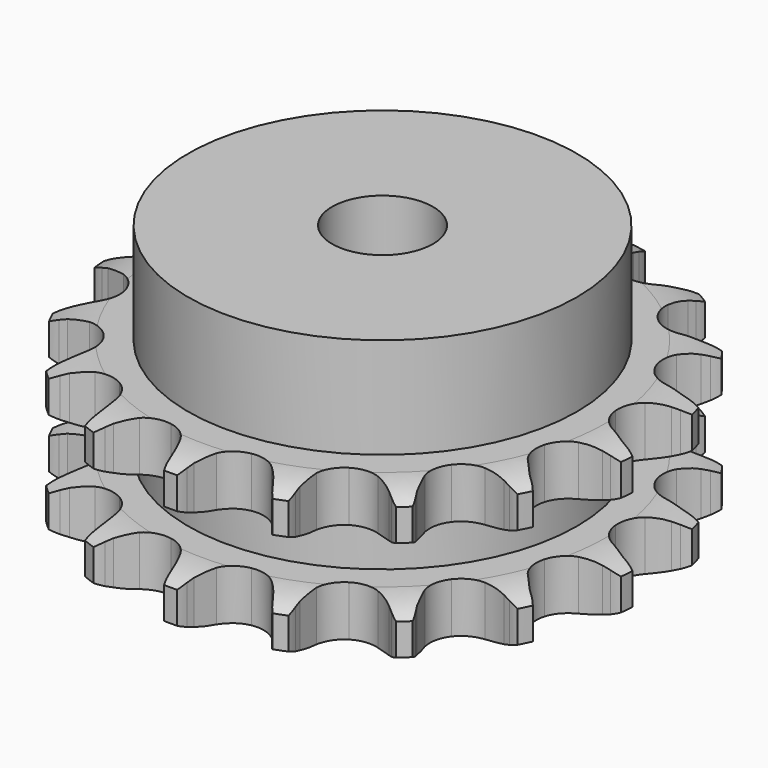
from build123d import *

# Parameters (mm, degrees)
PAD_DEPTH         = 21
SKETCH001_R       = 27
PAD001_DEPTH      = 35
SKETCH002_R       = 7
POCKET_DEPTH      = 0.001
POCKET_DEPTH_BACK = 35.001


with BuildPart() as part:
    # Sprocket → Pad (new body)
    with BuildSketch(Plane.XY):
        with BuildLine():
            ThreePointArc((-7.040452, 37.663091), (-6.014058, 36.538724), (-5.252562, 35.220464))
            Line((-5.252562, 35.220464), (-4.84886, 34.306167))
            ThreePointArc((-4.84886, 34.306167), (-4.190227, 33.040945), (-3.375086, 31.870419))
            ThreePointArc((-3.375086, 31.870419), (-1.873362, 30.671483), (0, 30.243539))
            ThreePointArc((0, 30.243539), (1.873362, 30.671483), (3.375086, 31.870419))
            ThreePointArc((3.375086, 31.870419), (4.190227, 33.040945), (4.84886, 34.306167))
            Line((4.84886, 34.306167), (5.252562, 35.220464))
            ThreePointArc((5.252562, 35.220464), (6.014058, 36.538724), (7.040452, 37.663091))
            ThreePointArc((7.040452, 37.663091), (7.591368, 36.243874), (7.825231, 34.739549))
            Line((7.825231, 34.739549), (7.871389, 33.741158))
            ThreePointArc((7.871389, 33.741158), (8.028495, 32.323448), (8.365749, 30.937503))
            ThreePointArc((8.365749, 30.937503), (9.332959, 29.277043), (10.925226, 28.20126))
            ThreePointArc((10.925226, 28.20126), (12.826676, 27.92357), (14.660097, 28.499059))
            Line((14.660097, 28.499059), (16.914245, 30.237938))
            ThreePointArc((16.914245, 30.237938), (17.259664, 30.599241), (17.620967, 30.94466))
            ThreePointArc((17.620967, 30.94466), (18.807251, 31.898817), (20.170503, 32.576482))
            ThreePointArc((20.170503, 32.576482), (20.171537, 31.054087), (19.846183, 29.566865))
            Line((19.846183, 29.566865), (19.528564, 28.619219))
            ThreePointArc((19.528564, 28.619219), (19.162925, 27.240491), (18.976744, 25.826305))
            ThreePointArc((18.976744, 25.826305), (19.278813, 23.928575), (20.37494, 22.350245))
            ThreePointArc((20.37494, 22.350245), (22.047676, 21.404423), (23.965181, 21.278743))
            Line((23.965181, 21.278743), (26.695266, 22.085907))
            ThreePointArc((26.695266, 22.085907), (27.147878, 22.298033), (27.609563, 22.489609))
            ThreePointArc((27.609563, 22.489609), (29.060421, 22.950799), (30.576417, 23.090238))
            ThreePointArc((30.576417, 23.090238), (30.027428, 21.670274), (29.186798, 20.401012))
            Line((29.186798, 20.401012), (28.548298, 19.632096))
            ThreePointArc((28.548298, 19.632096), (27.709296, 18.478554), (27.024824, 17.227121))
            ThreePointArc((27.024824, 17.227121), (26.620956, 15.348422), (27.072906, 13.480705))
            ThreePointArc((27.072906, 13.480705), (28.291015, 11.994491), (30.033635, 11.184615))
            Line((30.033635, 11.184615), (32.870944, 10.951053))
            ThreePointArc((32.870944, 10.951053), (33.369621, 10.985352), (33.869335, 10.997211))
            ThreePointArc((33.869335, 10.997211), (35.388821, 10.903147), (36.852816, 10.48553))
            ThreePointArc((36.852816, 10.48553), (35.827949, 9.359771), (34.585574, 8.47989))
            Line((34.585574, 8.47989), (33.712427, 7.99355))
            ThreePointArc((33.712427, 7.99355), (32.513372, 7.220986), (31.423052, 6.30132))
            ThreePointArc((31.423052, 6.30132), (30.367792, 4.695378), (30.114525, 2.790522))
            ThreePointArc((30.114525, 2.790522), (30.713496, 0.964637), (32.045879, -0.420057))
            Line((32.045879, -0.420057), (34.607219, -1.662802))
            ThreePointArc((34.607219, -1.662802), (35.084612, -1.810962), (35.554865, -1.980421))
            ThreePointArc((35.554865, -1.980421), (36.937764, -2.617035), (38.152038, -3.535307))
            ThreePointArc((38.152038, -3.535307), (36.789707, -4.214822), (35.313377, -4.586489))
            Line((35.313377, -4.586489), (34.323505, -4.72457))
            ThreePointArc((34.323505, -4.72457), (32.926338, -5.011816), (31.577423, -5.47551))
            ThreePointArc((31.577423, -5.47551), (30.013289, -6.591802), (29.089011, -8.276537))
            ThreePointArc((29.089011, -8.276537), (28.987949, -10.195498), (29.73015, -11.967998))
            Line((29.73015, -11.967998), (31.669598, -14.052086))
            ThreePointArc((31.669598, -14.052086), (32.061231, -14.362695), (32.438514, -14.690586))
            ThreePointArc((32.438514, -14.690586), (33.498057, -15.783771), (34.298615, -17.078681))
            ThreePointArc((34.298615, -17.078681), (32.782811, -17.220179), (31.271913, -17.033437))
            Line((31.271913, -17.033437), (30.299004, -16.80461))
            ThreePointArc((30.299004, -16.80461), (28.892419, -16.567744), (27.467087, -16.512842))
            ThreePointArc((27.467087, -16.512842), (25.605325, -16.988723), (24.134865, -18.225804))
            ThreePointArc((24.134865, -18.225804), (23.347419, -19.978673), (23.3992, -21.899595))
            Line((23.3992, -21.899595), (24.454821, -24.543559))
            ThreePointArc((24.454821, -24.543559), (24.707804, -24.974667), (24.941161, -25.416706))
            ThreePointArc((24.941161, -25.416706), (25.534252, -26.818822), (25.812975, -28.315485))
            ThreePointArc((25.812975, -28.315485), (24.348414, -27.899856), (23.007003, -27.179924))
            Line((23.007003, -27.179924), (22.182454, -26.615095))
            ThreePointArc((22.182454, -26.615095), (20.956419, -25.886107), (19.64717, -25.320023))
            ThreePointArc((19.64717, -25.320023), (17.73922, -25.091222), (15.921172, -25.713575))
            ThreePointArc((15.921172, -25.713575), (14.55369, -27.063619), (13.908058, -28.87353))
            Line((13.908058, -28.87353), (13.937286, -31.720287))
            ThreePointArc((13.937286, -31.720287), (14.017451, -32.213672), (14.075367, -32.710159))
            ThreePointArc((14.075367, -32.710159), (14.121905, -34.231843), (13.84115, -35.728125))
            ThreePointArc((13.84115, -35.728125), (12.62563, -34.811503), (11.63487, -33.655613))
            Line((11.63487, -33.655613), (11.070041, -32.831064))
            ThreePointArc((11.070041, -32.831064), (10.190138, -31.708408), (9.173793, -30.707594))
            ThreePointArc((9.173793, -30.707594), (7.477335, -29.805013), (5.557236, -29.728585))
            ThreePointArc((5.557236, -29.728585), (3.794405, -30.493472), (2.538556, -31.947935))
            Line((2.538556, -31.947935), (1.537442, -34.613015))
            ThreePointArc((1.537442, -34.613015), (1.433963, -35.102041), (1.308616, -35.585924))
            ThreePointArc((1.308616, -35.585924), (0.802316, -37.021663), (0, -38.315485))
            ThreePointArc((0, -38.315485), (-0.802316, -37.021663), (-1.308616, -35.585924))
            Line((-1.308616, -35.585924), (-1.537442, -34.613015))
            ThreePointArc((-1.537442, -34.613015), (-1.952377, -33.248312), (-2.538556, -31.947935))
            ThreePointArc((-2.538556, -31.947935), (-3.794405, -30.493472), (-5.557236, -29.728585))
            ThreePointArc((-5.557236, -29.728585), (-7.477335, -29.805013), (-9.173793, -30.707594))
            Line((-9.173793, -30.707594), (-11.070041, -32.831064))
            ThreePointArc((-11.070041, -32.831064), (-11.343189, -33.249686), (-11.63487, -33.655613))
            ThreePointArc((-11.63487, -33.655613), (-12.62563, -34.811503), (-13.84115, -35.728125))
            ThreePointArc((-13.84115, -35.728125), (-14.121905, -34.231843), (-14.075367, -32.710159))
            Line((-14.075367, -32.710159), (-13.937286, -31.720287))
            ThreePointArc((-13.937286, -31.720287), (-13.831213, -30.297848), (-13.908058, -28.87353))
            ThreePointArc((-13.908058, -28.87353), (-14.55369, -27.063619), (-15.921172, -25.713575))
            ThreePointArc((-15.921172, -25.713575), (-17.73922, -25.091222), (-19.64717, -25.320023))
            Line((-19.64717, -25.320023), (-22.182454, -26.615095))
            ThreePointArc((-22.182454, -26.615095), (-22.588381, -26.906776), (-23.007003, -27.179924))
            ThreePointArc((-23.007003, -27.179924), (-24.348414, -27.899856), (-25.812975, -28.315485))
            ThreePointArc((-25.812975, -28.315485), (-25.534252, -26.818822), (-24.941161, -25.416706))
            Line((-24.941161, -25.416706), (-24.454821, -24.543559))
            ThreePointArc((-24.454821, -24.543559), (-23.842067, -23.255491), (-23.3992, -21.899595))
            ThreePointArc((-23.3992, -21.899595), (-23.347419, -19.978673), (-24.134865, -18.225804))
            ThreePointArc((-24.134865, -18.225804), (-25.605325, -16.988723), (-27.467087, -16.512842))
            Line((-27.467087, -16.512842), (-30.299004, -16.80461))
            ThreePointArc((-30.299004, -16.80461), (-30.782887, -16.929957), (-31.271913, -17.033437))
            ThreePointArc((-31.271913, -17.033437), (-32.782811, -17.220179), (-34.298615, -17.078681))
            ThreePointArc((-34.298615, -17.078681), (-33.498057, -15.783771), (-32.438514, -14.690586))
            Line((-32.438514, -14.690586), (-31.669598, -14.052086))
            ThreePointArc((-31.669598, -14.052086), (-30.632918, -13.072352), (-29.73015, -11.967998))
            ThreePointArc((-29.73015, -11.967998), (-28.987949, -10.195498), (-29.089011, -8.276537))
            ThreePointArc((-29.089011, -8.276537), (-30.013289, -6.591802), (-31.577423, -5.47551))
            Line((-31.577423, -5.47551), (-34.323505, -4.72457))
            ThreePointArc((-34.323505, -4.72457), (-34.819993, -4.666654), (-35.313377, -4.586489))
            ThreePointArc((-35.313377, -4.586489), (-36.789707, -4.214822), (-38.152038, -3.535307))
            ThreePointArc((-38.152038, -3.535307), (-36.937764, -2.617035), (-35.554865, -1.980421))
            Line((-35.554865, -1.980421), (-34.607219, -1.662802))
            ThreePointArc((-34.607219, -1.662802), (-33.286623, -1.123719), (-32.045879, -0.420057))
            ThreePointArc((-32.045879, -0.420057), (-30.713496, 0.964637), (-30.114525, 2.790522))
            ThreePointArc((-30.114525, 2.790522), (-30.367792, 4.695378), (-31.423052, 6.30132))
            Line((-31.423052, 6.30132), (-33.712427, 7.99355))
            ThreePointArc((-33.712427, 7.99355), (-34.154466, 8.226907), (-34.585574, 8.47989))
            ThreePointArc((-34.585574, 8.47989), (-35.827949, 9.359771), (-36.852816, 10.48553))
            ThreePointArc((-36.852816, 10.48553), (-35.388821, 10.903147), (-33.869335, 10.997211))
            Line((-33.869335, 10.997211), (-32.870944, 10.951053))
            ThreePointArc((-32.870944, 10.951053), (-31.444786, 10.976679), (-30.033635, 11.184615))
            ThreePointArc((-30.033635, 11.184615), (-28.291015, 11.994491), (-27.072906, 13.480705))
            ThreePointArc((-27.072906, 13.480705), (-26.620956, 15.348422), (-27.024824, 17.227121))
            Line((-27.024824, 17.227121), (-28.548298, 19.632096))
            ThreePointArc((-28.548298, 19.632096), (-28.876189, 20.009379), (-29.186798, 20.401012))
            ThreePointArc((-29.186798, 20.401012), (-30.027428, 21.670274), (-30.576417, 23.090238))
            ThreePointArc((-30.576417, 23.090238), (-29.060421, 22.950799), (-27.609563, 22.489609))
            Line((-27.609563, 22.489609), (-26.695266, 22.085907))
            ThreePointArc((-26.695266, 22.085907), (-25.356156, 21.594615), (-23.965181, 21.278743))
            ThreePointArc((-23.965181, 21.278743), (-22.047676, 21.404423), (-20.37494, 22.350245))
            ThreePointArc((-20.37494, 22.350245), (-19.278813, 23.928575), (-18.976744, 25.826305))
            Line((-18.976744, 25.826305), (-19.528564, 28.619219))
            ThreePointArc((-19.528564, 28.619219), (-19.698023, 29.089473), (-19.846183, 29.566865))
            ThreePointArc((-19.846183, 29.566865), (-20.171537, 31.054087), (-20.170503, 32.576482))
            ThreePointArc((-20.170503, 32.576482), (-18.807251, 31.898817), (-17.620967, 30.94466))
            Line((-17.620967, 30.94466), (-16.914245, 30.237938))
            ThreePointArc((-16.914245, 30.237938), (-15.843037, 29.296079), (-14.660097, 28.499059))
            ThreePointArc((-14.660097, 28.499059), (-12.826676, 27.92357), (-10.925226, 28.20126))
            ThreePointArc((-10.925226, 28.20126), (-9.332959, 29.277043), (-8.365749, 30.937503))
            Line((-8.365749, 30.937503), (-7.871389, 33.741158))
            ThreePointArc((-7.871389, 33.741158), (-7.85953, 34.240872), (-7.825231, 34.739549))
            ThreePointArc((-7.825231, 34.739549), (-7.591368, 36.243874), (-7.040452, 37.663091))
        make_face()
    extrude(amount=PAD_DEPTH)

    # Sketch → Groove (revolve, cut)
    with BuildSketch(Plane.XZ):
        with BuildLine():
            ThreePointArc((31.133431, 0), (34.04032, 0.329167), (36.8, 1.3))
            Line((36.8, 1.3), (36.8, 5.7))
            ThreePointArc((36.8, 5.7), (34.04032, 6.670833), (31.133431, 7))
            Line((27, 7), (31.133431, 7))
            Line((27, 14), (27, 7))
            Line((31.133431, 14), (27, 14))
            ThreePointArc((31.133431, 14), (34.04032, 14.329167), (36.8, 15.3))
            Line((36.8, 15.3), (36.8, 19.7))
            ThreePointArc((36.8, 19.7), (34.04032, 20.670833), (31.133431, 21))
            Line((31.133431, 21), (41.133431, 21))
            Line((41.133431, 21), (41.133431, 0))
            Line((31.133431, 0), (41.133431, 0))
        make_face()
    revolve(axis=Axis((0, 0, 0), (0, 0, 1)), mode=Mode.SUBTRACT)

    # Sketch001 → Pad001 (join)
    with BuildSketch(Plane.XY):
        Circle(SKETCH001_R)
    extrude(amount=PAD001_DEPTH)

    # Sketch002 → Pocket (cut, two sides)
    with BuildSketch(Plane.XY) as pocket_sk:
        Circle(SKETCH002_R)
    extrude(amount=-POCKET_DEPTH, mode=Mode.SUBTRACT)
    extrude(pocket_sk.sketch, amount=POCKET_DEPTH_BACK, mode=Mode.SUBTRACT)


solid = part.part
